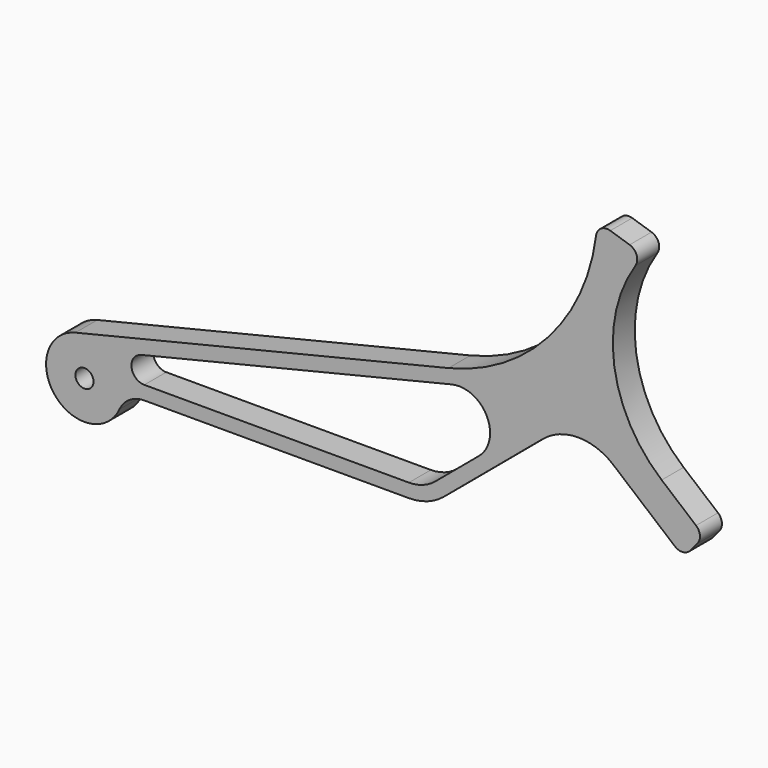
from build123d import *

# Parameters (mm, degrees)
F1_DEPTH = 5
F3_D     = 3.3


with BuildPart() as f1:
    # F0 (on Front) → F1 (new body)
    with BuildSketch(Plane.XZ):
        with BuildLine():
            Line((-23.6461665058, 23.2211217493), (-91.6428281357, 6.8044923188))
            ThreePointArc((-91.6428281357, 6.8044923188), (-95.4033525737, -4.4501439263), (-83.6365845998, -2.9166666667))
            ThreePointArc((-83.6365845998, -2.9166666667), (-81.7915965097, -0.7918729423), (-79.0912878854, 0))
            Line((-79.0912878854, 0), (-30.8648693127, 0))
            ThreePointArc((-30.8648693127, 0), (-27.4446678795, 0.6030737921), (-24.4369932159, 2.3395555688))
            Line((-24.4369932159, 2.3395555688), (-6.4278760969, 17.4509991012))
            ThreePointArc((-6.4278760969, 17.4509991012), (0, 19.79055467), (6.4278760969, 17.4509991012))
            Line((6.4278760969, 17.4509991012), (17.637388412, 8.0451014519))
            ThreePointArc((17.637388412, 8.0451014519), (19.0972751168, 7.5848009419), (20.4550525176, 8.2916151188))
            Line((20.4550525176, 8.2916151188), (21.740627737, 9.823704005))
            ThreePointArc((21.740627737, 9.823704005), (22.2009282469, 11.2835907099), (21.4941140701, 12.6413681106))
            Line((21.4941140701, 12.6413681106), (15.2246371953, 17.9020838439))
            ThreePointArc((15.2246371953, 17.9020838439), (6.5763005194, 33.4113330575), (10.4393061846, 50.7436071627))
            ThreePointArc((10.4393061846, 50.7436071627), (10.6559489616, 52.5108313233), (9.3779594034, 53.7504917671))
            Line((9.3779594034, 53.7504917671), (5.8574180525, 54.8738496843))
            ThreePointArc((5.8574180525, 54.8738496843), (4.1756207573, 54.6557730627), (3.2659032092, 53.2245450803))
            ThreePointArc((3.2659032092, 53.2245450803), (-5.5268631405, 34.0400371453), (-23.6461665058, 23.2211217493))
        make_face()
        with BuildLine():
            ThreePointArc((-26.0439622042, 4.2546666338), (-28.2997182187, 2.9523052916), (-30.8648693127, 2.4999999441))
            Line((-30.8648693127, 2.4999999441), (-79.0912878854, 2.4999999441))
            ThreePointArc((-79.0912878854, 2.4999999441), (-81.4226169121, 4.5703358312), (-79.6422877108, 7.1299869112))
            Line((-79.6422877108, 7.1299869112), (-23.0594421716, 20.7909459212))
            ThreePointArc((-23.0594421716, 20.7909459212), (-16.6662430805, 17.8341647684), (-18.0834046997, 10.9343674998))
            Line((-18.0834046997, 10.9343674998), (-26.0439622042, 4.2546666338))
        make_face(mode=Mode.SUBTRACT)
    extrude(amount=-F1_DEPTH)

    # F3 (through all)
    with Locations(Plane.XZ):
        with Locations((-90, 0)):
            Hole(F3_D / 2)


solid = f1.part
